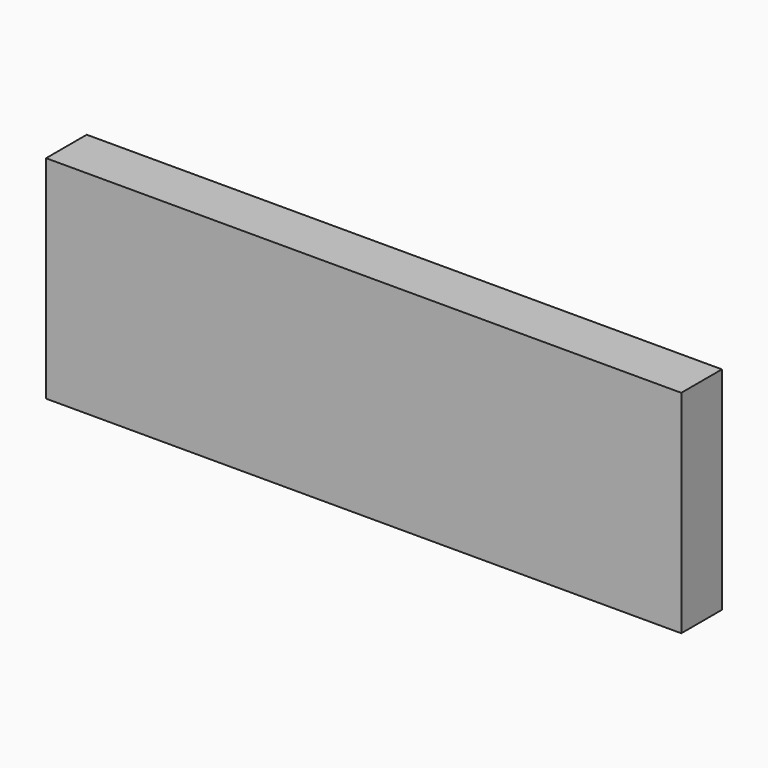
from build123d import *

# Parameters (mm, degrees)
SKETCH_W      = 150
SKETCH_H      = 12
EXTRUDE_DEPTH = 50


with BuildPart() as part:
    # Sketch → Extrude (new body)
    with BuildSketch(Plane.XY):
        Rectangle(SKETCH_W, SKETCH_H)
    extrude(amount=EXTRUDE_DEPTH)


solid = part.part
